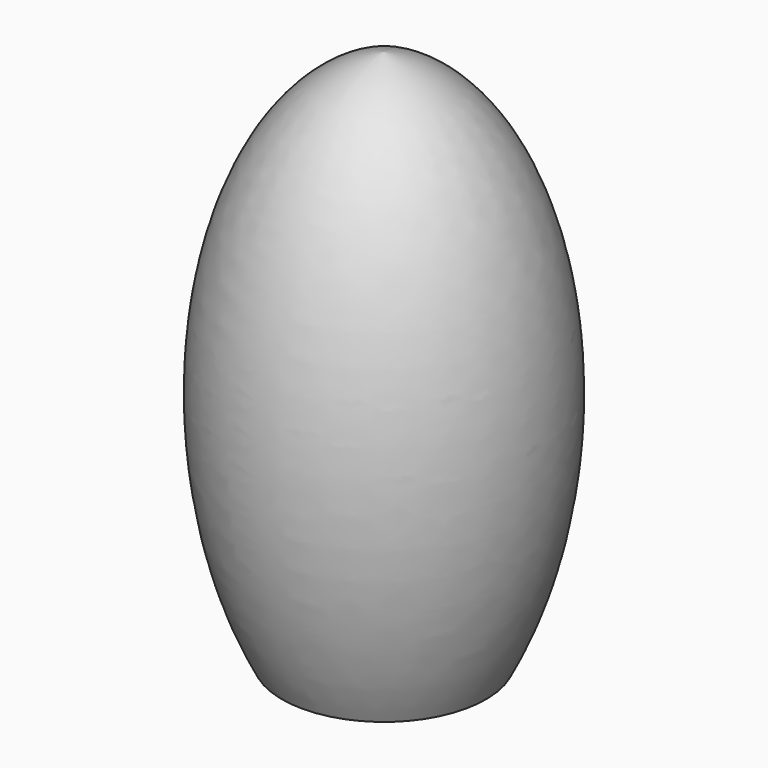
from build123d import *


with BuildPart() as f1:
    # F0 (on Right) → F1 (revolve)
    with BuildSketch(Plane.YZ):
        with BuildLine():
            Line((-19, -43.554428), (0, -43.554428))
            Line((0, -43.554428), (0, 56.445572))
            add(Edge.make_bspline(
                [(0, 56.445572), (-30.02312, 49.602035), (-37.651509, -8.0544), (-19, -43.554428)],
                knots=[0, 0, 0, 0, 101.788997, 101.788997, 101.788997, 101.788997], degree=3))
        make_face()
    revolve(axis=Axis((0, 0, 6.445572), (0, 0, 1)))


solid = f1.part
